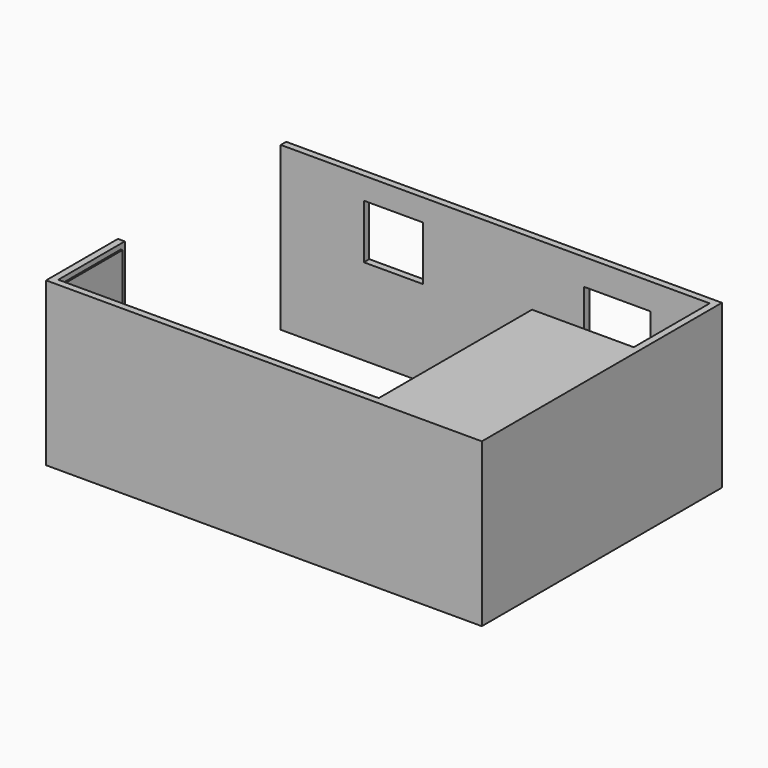
from build123d import *

# Parameters (mm, degrees)
F1_DEPTH  = 2438.4
F2_W      = 990.6
F2_H      = 1155.7
F2_W_2    = 889
F2_H_2    = 812.8
F3_DEPTH  = 127
F4_W      = 3048
F4_H      = 2438.4
F5_DEPTH  = 101.6
F6_W      = 727.075
F6_H      = 693.7502
F7_DEPTH  = 25.4
F8_W      = 574.675
F8_H      = 25.4
F9_DEPTH  = 25.4
F10_W     = 879.475
F10_H     = 304.8
F10_H_2   = 228.6
F11_DEPTH = 25.4
F12_W     = 1092.2
F12_H     = 304.8
F12_H_2   = 254
F12_H_3   = 203.2
F12_H_4   = 1371.6
F13_DEPTH = 25.4


with BuildPart() as f1:
    # F0 (on Top) → F1 (new body)
    with BuildSketch(Plane.XY):
        Polygon((-503.308974, 1781.648856), (-7031.108974, 1781.648856), (-7031.108974, -1063.151144), (-7031.108974, -2714.151144), (-503.308974, -2714.151144), align=None)
        Polygon((-604.908974, 1680.048856), (-604.908974, 257.648856), (-2128.908974, 257.648856), (-2128.908974, -2612.551144), (-6929.508974, -2612.551144), (-6929.508974, 1680.048856), align=None, mode=Mode.SUBTRACT)
    extrude(amount=F1_DEPTH)

    # F2 (on face) → F3 (cut, symmetric)
    with BuildSketch(Plane(origin=(0, 1781.648856, 0), x_dir=(-1, 0, 0), z_dir=(0, 1, 0))):
        with Locations((1989.208974, 1466.85)):
            Rectangle(F2_W, F2_H)
        with Locations((5342.008974, 1701.8)):
            Rectangle(F2_W_2, F2_H_2)
    extrude(amount=F3_DEPTH, both=True, mode=Mode.SUBTRACT)

    # F4 (on face) → F5 (cut, through all)
    with BuildSketch(Plane.YZ.offset(-6929.508974)):
        with Locations((156.048856, 1219.2)):
            Rectangle(F4_W, F4_H)
    extrude(amount=-F5_DEPTH, mode=Mode.SUBTRACT)

    # F6 (on face) → F7 (join)
    with BuildSketch(Plane(origin=(-2128.908974, 0, 0), x_dir=(0, -1, 0), z_dir=(-1, 0, 0))):
        with Locations((258.288644, 1261.2751)):
            Rectangle(F6_W, F6_H)
    extrude(amount=F7_DEPTH)

    # F8 (on face) → F9 (join)
    with BuildSketch(Plane(origin=(-2154.308974, 0, 0), x_dir=(0, -1, 0), z_dir=(-1, 0, 0))):
        with Locations((258.288644, 1519.2502)):
            Rectangle(F8_W, F8_H)
    extrude(amount=F9_DEPTH)

    # F10 (on face) → F11 (join)
    with BuildSketch(Plane(origin=(-2128.908974, 0, 0), x_dir=(0, -1, 0), z_dir=(-1, 0, 0))):
        with Locations((258.288644, 1836.7502)):
            Rectangle(F10_W, F10_H)
        with Locations((258.288644, 723.9)):
            Rectangle(F10_W, F10_H_2)
    extrude(amount=F11_DEPTH)

    # F12 (on face) → F13 (join)
    with BuildSketch(Plane.YZ.offset(-6929.508974)):
        with Locations((-1990.251144, 228.6)):
            Rectangle(F12_W, F12_H)
        with Locations((-1990.251144, 558.8)):
            Rectangle(F12_W, F12_H_2)
        with Locations((-1990.251144, 838.2)):
            Rectangle(F12_W, F12_H_3)
        with Locations((-1990.251144, 1676.4)):
            Rectangle(F12_W, F12_H_4)
    extrude(amount=F13_DEPTH)


solid = f1.part
